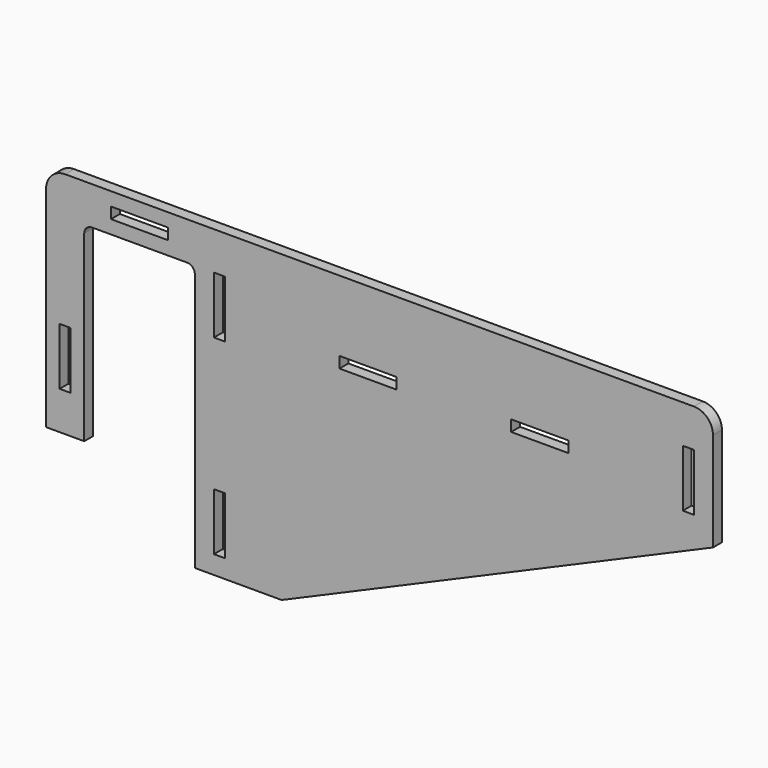
from build123d import *

# Parameters (mm, degrees)
F1_W     = 2.92
F1_H     = 15
F1_W_2   = 15
F1_H_2   = 2.92
F2_DEPTH = 2.92


with BuildPart() as f2:
    # F1 (on Front) → F2 (new body)
    with BuildSketch(Plane.XZ):
        with BuildLine():
            Line((0, 55), (0, 0))
            Line((0, 0), (10, 0))
            Line((10, 0), (10, 48))
            ThreePointArc((10, 48), (10.5857864376, 49.4142135624), (12, 50))
            Line((12, 50), (37, 50))
            ThreePointArc((37, 50), (38.4142135624, 49.4142135624), (39, 48))
            Line((39, 48), (39, -19.8143487114))
            Line((39, -19.8143487114), (61.7363576694, -19.8143487114))
            Line((61.7363576694, -19.8143487114), (174.84, 29.0905267951))
            Line((174.84, 29.0905267951), (174.84, 55))
            ThreePointArc((174.84, 55), (173.3755339059, 58.5355339059), (169.84, 60))
            Line((169.84, 60), (5, 60))
            ThreePointArc((5, 60), (1.4644660941, 58.5355339059), (0, 55))
        make_face()
        with Locations((45.46, -7.5)):
            Rectangle(F1_W, F1_H, mode=Mode.SUBTRACT)
        with Locations((5, 17.5)):
            Rectangle(F1_W, F1_H, mode=Mode.SUBTRACT)
        with Locations((84.42, 40)):
            Rectangle(F1_W_2, F1_H_2, mode=Mode.SUBTRACT)
        with Locations((24.5, 55)):
            Rectangle(F1_W_2, F1_H_2, mode=Mode.SUBTRACT)
        with Locations((45.46, 42.5)):
            Rectangle(F1_W, F1_H, mode=Mode.SUBTRACT)
        with Locations((129.42, 40)):
            Rectangle(F1_W_2, F1_H_2, mode=Mode.SUBTRACT)
        with Locations((168.38, 42.5)):
            Rectangle(F1_W, F1_H, mode=Mode.SUBTRACT)
    extrude(amount=F2_DEPTH)


solid = f2.part
